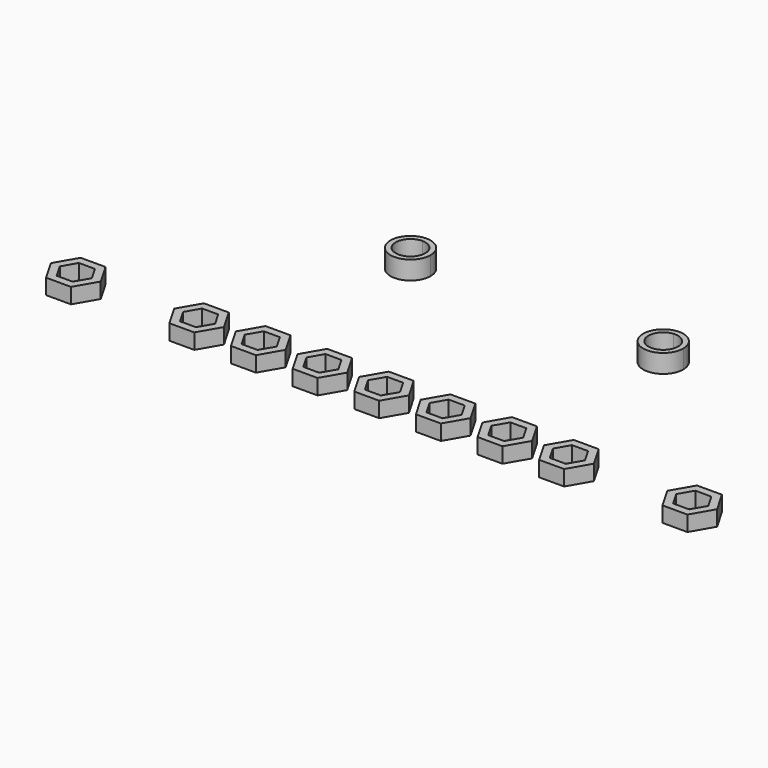
from build123d import *

# Parameters (mm, degrees)
F1_DEPTH = 2.5
F2_DEPTH = 3


with BuildPart() as f1:
    # F0 (on Top) → F1 (new body)
    with BuildSketch(Plane.XY):
        Polygon((24.041452, -16), (22.020726, -12.5), (17.979274, -12.5), (15.958548, -16), (17.979274, -19.5), (22.020726, -19.5), align=None)
        Polygon((17.401924, -16), (18.700962, -13.75), (21.299038, -13.75), (22.598076, -16), (21.299038, -18.25), (18.700962, -18.25), align=None, mode=Mode.SUBTRACT)
        Polygon((12.020726, -12.5), (7.979274, -12.5), (5.958548, -16), (7.979274, -19.5), (12.020726, -19.5), (14.041452, -16), align=None)
        Polygon((7.401924, -16), (8.700962, -13.75), (11.299038, -13.75), (12.598076, -16), (11.299038, -18.25), (8.700962, -18.25), align=None, mode=Mode.SUBTRACT)
        Polygon((0, -18.25), (0, -19.5), (2.020726, -19.5), (4.041452, -16), (2.020726, -12.5), (0, -12.5), (0, -13.75), (1.299038, -13.75), (2.598076, -16), (1.299038, -18.25), align=None)
        Polygon((-2.020726, -19.5), (0, -19.5), (0, -18.25), (-1.299038, -18.25), (-2.598076, -16), (-1.299038, -13.75), (0, -13.75), (0, -12.5), (-2.020726, -12.5), (-4.041452, -16), align=None)
        Polygon((-5.958548, -16), (-7.979274, -12.5), (-12.020726, -12.5), (-14.041452, -16), (-12.020726, -19.5), (-7.979274, -19.5), align=None)
        Polygon((-12.598076, -16), (-11.299038, -13.75), (-8.700962, -13.75), (-7.401924, -16), (-8.700962, -18.25), (-11.299038, -18.25), align=None, mode=Mode.SUBTRACT)
        Polygon((-17.979274, -12.5), (-22.020726, -12.5), (-24.041452, -16), (-22.020726, -19.5), (-17.979274, -19.5), (-15.958548, -16), align=None)
        Polygon((-22.598076, -16), (-21.299038, -13.75), (-18.700962, -13.75), (-17.401924, -16), (-18.700962, -18.25), (-21.299038, -18.25), align=None, mode=Mode.SUBTRACT)
        Polygon((-27.979274, -12.5), (-32.020726, -12.5), (-34.041452, -16), (-32.020726, -19.5), (-27.979274, -19.5), (-25.958548, -16), align=None)
        Polygon((-32.598076, -16), (-31.299038, -13.75), (-28.700962, -13.75), (-27.401924, -16), (-28.700962, -18.25), (-31.299038, -18.25), align=None, mode=Mode.SUBTRACT)
        Polygon((-47.979274, -12.5), (-52.020726, -12.5), (-54.041452, -16), (-52.020726, -19.5), (-47.979274, -19.5), (-45.958548, -16), align=None)
        Polygon((-52.598076, -16), (-51.299038, -13.75), (-48.700962, -13.75), (-47.401924, -16), (-48.700962, -18.25), (-51.299038, -18.25), align=None, mode=Mode.SUBTRACT)
        Polygon((54.041452, -16), (52.020726, -12.5), (47.979274, -12.5), (45.958548, -16), (47.979274, -19.5), (52.020726, -19.5), align=None)
        Polygon((47.401924, -16), (48.700962, -13.75), (51.299038, -13.75), (52.598076, -16), (51.299038, -18.25), (48.700962, -18.25), align=None, mode=Mode.SUBTRACT)
        Polygon((34.041452, -16), (32.020726, -12.5), (27.979274, -12.5), (25.958548, -16), (27.979274, -19.5), (32.020726, -19.5), align=None)
        Polygon((27.401924, -16), (28.700962, -13.75), (31.299038, -13.75), (32.598076, -16), (31.299038, -18.25), (28.700962, -18.25), align=None, mode=Mode.SUBTRACT)
    extrude(amount=F1_DEPTH)


with BuildPart() as f2:
    # F0 (on Top) → F2 (new body)
    with BuildSketch(Plane.XY):
        with BuildLine():
            ThreePointArc((-17.25, 15), (-18.201903, 17.298097), (-20.5, 18.25))
            ThreePointArc((-20.5, 18.25), (-22.798097, 12.701903), (-17.25, 15))
        make_face()
        with BuildLine():
            ThreePointArc((-18.1, 15), (-22.197056, 13.302944), (-20.5, 17.4))
            ThreePointArc((-20.5, 17.4), (-18.802944, 16.697056), (-18.1, 15))
        make_face(mode=Mode.SUBTRACT)
        with BuildLine():
            ThreePointArc((23.75, 15), (22.70794, 17.384848), (20.25, 18.24037))
            ThreePointArc((20.25, 18.24037), (18.29206, 12.615152), (23.75, 15))
        make_face()
        with BuildLine():
            ThreePointArc((22.9, 15), (18.893762, 13.216745), (20.25, 17.386944))
            ThreePointArc((20.25, 17.386944), (22.106238, 16.783255), (22.9, 15))
        make_face(mode=Mode.SUBTRACT)
    extrude(amount=F2_DEPTH)


solid = Compound([f1.part, f2.part])
